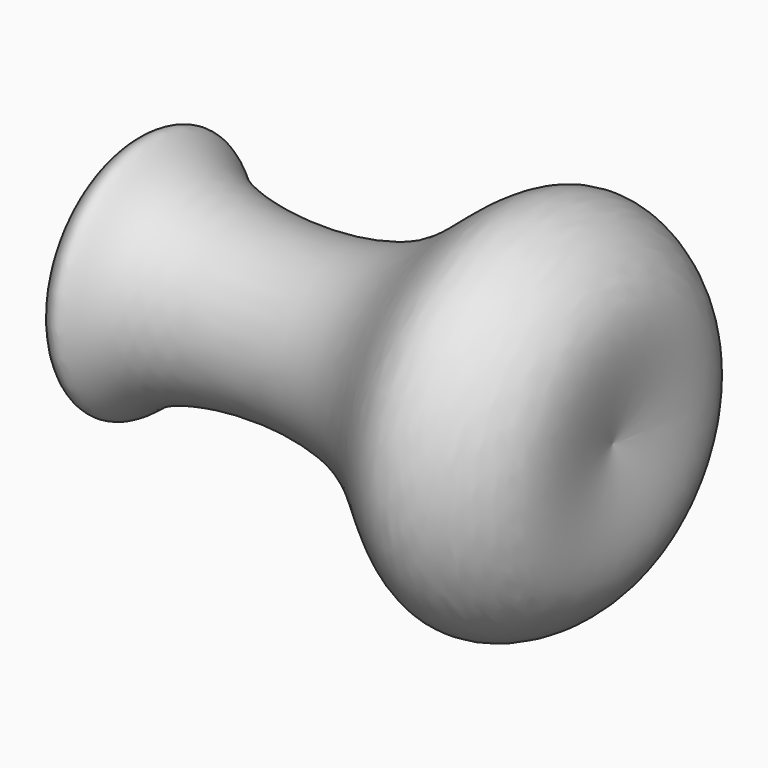
from build123d import *

# Parameters (mm, degrees)
F2_R     = 6.15
F3_DEPTH = 33


with BuildPart() as f1:
    # F0 (on Top) → F1 (revolve)
    with BuildSketch(Plane.XY):
        with BuildLine():
            Line((0, 0), (40, 0))
            add(Edge.make_bspline(
                [(40, 0), (41.3280721974, 6.3695411813), (41.6440347104, 11.6771015295), (31.1535671598, 17.7653810014), (23.6103083806, 5.3190828849), (4.6219510912, 6.6843105817), (2.1660500244, 11.0889187907), (-1.3954972826, 6.6536040046), (0.5512528152, 3.0833115372), (0, 0)],
                knots=[0, 0, 0, 0, 0.1691759957, 0.3077286658, 0.4816015559, 0.6855167568, 0.7758832772, 0.8683226823, 1, 1, 1, 1], degree=3))
        make_face()
    revolve(axis=Axis((20.4926985316, 0, 0), (1, 0, 0)))

    # F2 (on Right) → F3 (cut, symmetric)
    with BuildSketch(Plane.YZ):
        Circle(F2_R)
    extrude(amount=F3_DEPTH, both=True, mode=Mode.SUBTRACT)


solid = f1.part
